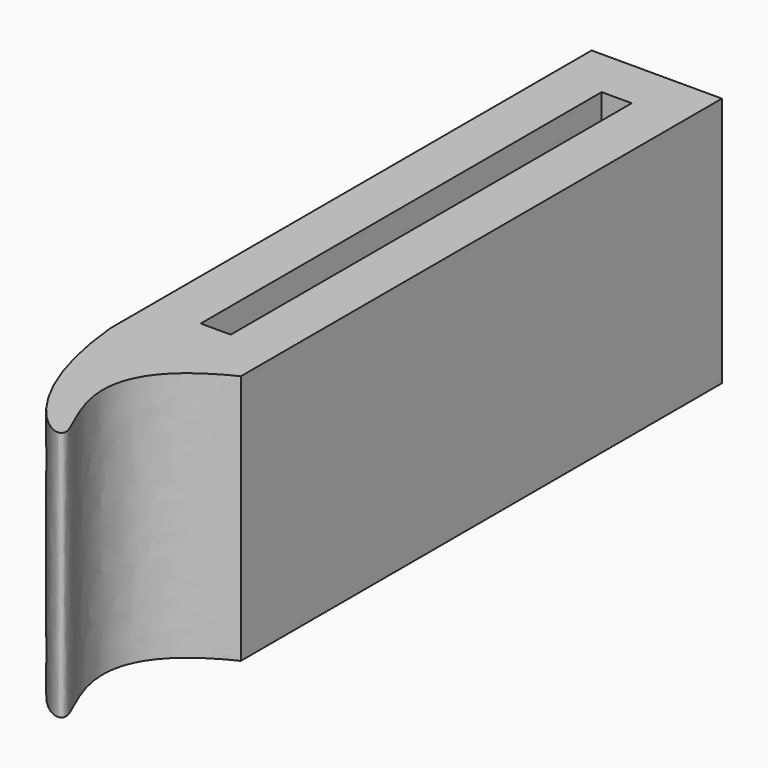
from build123d import *

# Parameters (mm, degrees)
F0_W     = 12.999999404
F0_H     = 59.999999404
F0_W_2   = 3
F0_H_2   = 50
F1_DEPTH = 25


with BuildPart() as f1:
    # F0 (on Top) → F1 (new body)
    with BuildSketch(Plane.XY):
        with BuildLine():
            Line((7.999999702, -25.5021493811), (-4.999999702, -25.5021493811))
            add(Edge.make_bspline(
                [(-4.999999702, -25.5021493811), (-3.7204727996, -39.2716526985), (10.240268168, -47.3864745277), (-3.9271656424, -31.2106311321), (7.999999702, -25.5021493811)],
                knots=[0, 0, 0, 0, 0.5094762931, 1, 1, 1, 1], degree=3))
        make_face()
        with Locations((1.5, 4.4978503209)):
            Rectangle(F0_W, F0_H)
        with Locations((1.5, 4.4978503209)):
            Rectangle(F0_W_2, F0_H_2, mode=Mode.SUBTRACT)
    extrude(amount=F1_DEPTH)


solid = f1.part
